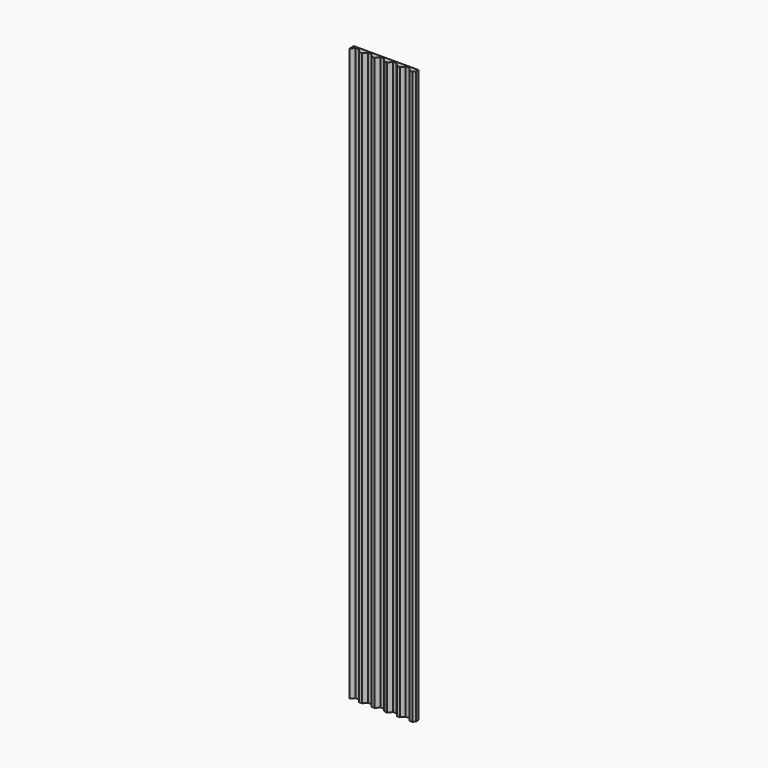
from build123d import *

# Parameters (mm, degrees)
F0_W     = 914.4
F0_H     = 101.6
F1_DEPTH = 8102.6
F3_DEPTH = 8102.601


with BuildPart() as f1:
    # F0 (on Top) → F1 (new body)
    with BuildSketch(Plane.XY):
        Rectangle(F0_W, F0_H)
    extrude(amount=F1_DEPTH)

    # F2 (on face) → F3 (cut, through all)
    with BuildSketch(Plane.XY.offset(8102.6)):
        Polygon((-414.573739, 25.4), (-457.2, -25.4), (-457.2, -50.8), (457.2, -50.8), (457.2, 4.870541), (431.8, -25.4), (390.052523, -25.4), (347.426261, 25.4), (296.626261, 25.4), (254, -25.4), (212.252523, -25.4), (169.626261, 25.4), (118.826261, 25.4), (76.2, -25.4), (34.452523, -25.4), (-8.173739, 25.4), (-58.973739, 25.4), (-101.6, -25.4), (-143.347477, -25.4), (-185.973739, 25.4), (-236.773739, 25.4), (-279.4, -25.4), (-321.147477, -25.4), (-363.773739, 25.4), align=None)
    extrude(amount=-F3_DEPTH, mode=Mode.SUBTRACT)


solid = f1.part
